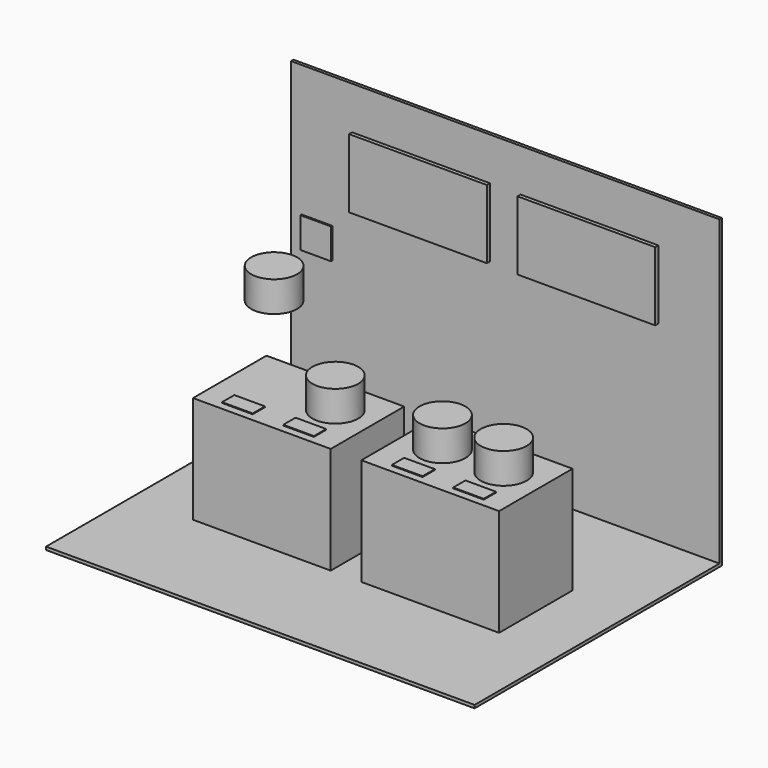
from build123d import *

# Parameters (mm, degrees)
F0_W      = 900
F0_H      = 600
F1_DEPTH  = 700
F2_W      = 2800
F2_H      = 2000
F3_DEPTH  = 20
F4_W      = 2800
F4_H      = 2000
F5_DEPTH  = 20
F6_W      = 900
F6_H      = 450
F7_DEPTH  = 25
F8_R      = 150
F9_DEPTH  = 200
F11_W     = 200
F11_H     = 200
F12_DEPTH = 10
F13_W     = 200
F13_H     = 100
F14_DEPTH = 5


with BuildPart() as f1:
    # F0 (on Top) → F1 (new body)
    with BuildSketch(Plane.XY):
        with Locations((-550, 0)):
            Rectangle(F0_W, F0_H)
    extrude(amount=F1_DEPTH)


with BuildPart() as f1b:
    # F0 (on Top) → F1, piece 2 (new body)
    with BuildSketch(Plane.XY):
        with Locations((550, 0)):
            Rectangle(F0_W, F0_H)
    extrude(amount=F1_DEPTH)


with BuildPart() as f3:
    # F2 (on Top) → F3 (new body)
    with BuildSketch(Plane.XY):
        Rectangle(F2_W, F2_H)
    extrude(amount=-F3_DEPTH)

    # F4 (on face) → F5 (join)
    with BuildSketch(Plane(origin=(0, 1000, 0), x_dir=(-1, 0, 0), z_dir=(0, 1, 0))):
        with Locations((0, 980)):
            Rectangle(F4_W, F4_H)
    extrude(amount=F5_DEPTH)

    # F6 (on face) → F7 (join)
    with BuildSketch(Plane.XZ.offset(-1000)):
        with Locations((-550, 1475)):
            Rectangle(F6_W, F6_H)
        with Locations((550, 1475)):
            Rectangle(F6_W, F6_H)
    extrude(amount=F7_DEPTH)

    # F11 (on face) → F12 (join)
    with BuildSketch(Plane.XZ.offset(-1000)):
        with Locations((-1230, 1020)):
            Rectangle(F11_W, F11_H)
    extrude(amount=F12_DEPTH)


with BuildPart() as f9:
    # F8 (on face) → F9 (new body)
    with BuildSketch(Plane.XY.offset(700)):
        with Locations((-750, 50)):
            Circle(F8_R)
    extrude(amount=F9_DEPTH)


with BuildPart() as f9b:
    # F8 (on face) → F9, piece 2 (new body)
    with BuildSketch(Plane.XY.offset(700)):
        with Locations((-350, 50)):
            Circle(F8_R)
    extrude(amount=F9_DEPTH)


with BuildPart() as f10_1:
    # F10: copy of F9b
    add(f9b.part.moved(Location((1100, 0, 0))))


with BuildPart() as f10_2:
    # F10: copy of F9
    add(f9.part.moved(Location((1100, 0, 0))))


with BuildPart() as f14:
    # F13 (on face) → F14 (new body)
    with BuildSketch(Plane.XY.offset(700)):
        with Locations((-750, -200)):
            Rectangle(F13_W, F13_H)
    extrude(amount=F14_DEPTH)


with BuildPart() as f14b:
    # F13 (on face) → F14, piece 2 (new body)
    with BuildSketch(Plane.XY.offset(700)):
        with Locations((-350, -200)):
            Rectangle(F13_W, F13_H)
    extrude(amount=F14_DEPTH)


with BuildPart() as f15_1:
    # F15: copy of F14b
    add(f14b.part.moved(Location((1110, 0, 0))))


with BuildPart() as f15_2:
    # F15: copy of F14
    add(f14.part.moved(Location((1110, 0, 0))))


with BuildPart() as f9_1:
    # F16: moved
    add(f9.part.moved(Location((0, 0, 500))))


solid = Compound([f1.part, f1b.part, f3.part, f9b.part, f10_1.part, f10_2.part, f14.part, f14b.part, f15_1.part, f15_2.part, f9_1.part])
